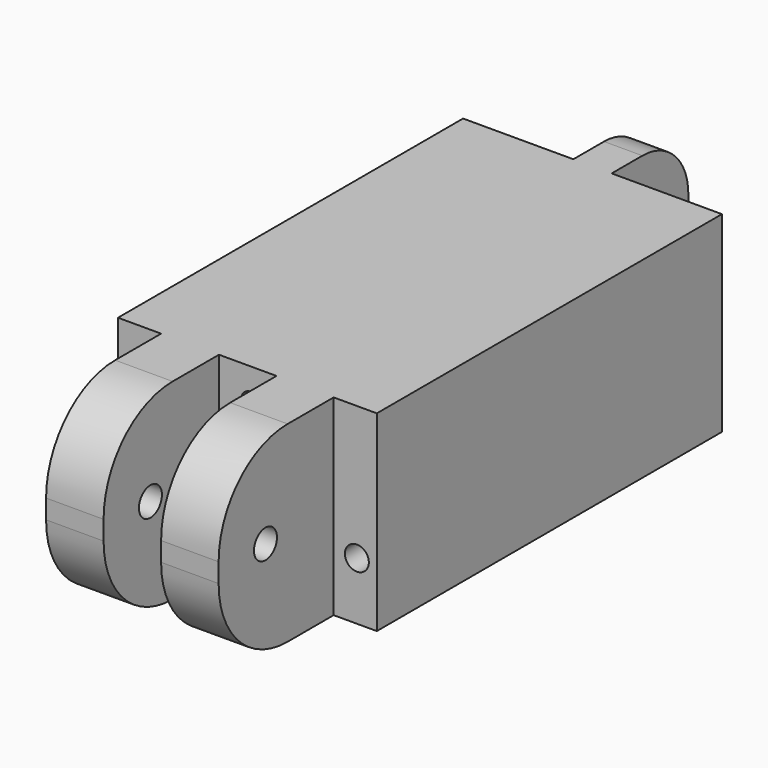
from build123d import *

# Parameters (mm, degrees)
PAD_DEPTH       = 20
SKETCH001_R     = 1.5
POCKET_DEPTH    = 22.501
FILLET_R        = 9
FILLET001_R     = 9
FILLET002_R     = 9
FILLET003_R     = 9
FILLET004_R     = 6
FILLET005_R     = 6
SKETCH002_R     = 1.5
POCKET001_DEPTH = 15.501
SKETCH003_R     = 1.25
POCKET002_DEPTH = 55.001155
SKETCH004_R     = 1
POCKET003_DEPTH = 54.95679


with BuildPart() as part:
    # Sketch → Pad (new body)
    with BuildSketch(Plane.XY):
        Polygon((-29.277703, 26.681208), (-17.777703, 26.681208), (-17.777703, 36.681208), (-13.777703, 36.681208), (-13.777703, 26.681208), (-2.277703, 26.681208), (-2.277703, -18.318792), (-6.777703, -18.318818), (-6.777703, -33.318818), (-12.777703, -33.318818), (-12.777703, -18.274582), (-18.777703, -18.274582), (-18.777703, -33.318792), (-24.777703, -33.318792), (-24.777703, -18.318792), (-29.277703, -18.318792), align=None)
    extrude(amount=PAD_DEPTH)

    # Sketch001 (on Face8 of Pad) → Pocket (cut, through all)
    with BuildSketch(Plane.YZ.offset(-6.777703)):
        with Locations((-27.212769, 10.156303)):
            Circle(SKETCH001_R)
    extrude(amount=-POCKET_DEPTH, mode=Mode.SUBTRACT)

    # Fillet
    fillet_edges = [part.edges().sort_by_distance(p)[0] for p in [
        (-21.777703, -33.318792, 20),
    ]]
    fillet(fillet_edges, radius=FILLET_R)

    # Fillet001
    fillet001_edges = [part.edges().sort_by_distance(p)[0] for p in [
        (-21.777703, -33.318792, 0),
    ]]
    fillet(fillet001_edges, radius=FILLET001_R)

    # Fillet002
    fillet002_edges = [part.edges().sort_by_distance(p)[0] for p in [
        (-9.777703, -33.318818, 20),
    ]]
    fillet(fillet002_edges, radius=FILLET002_R)

    # Fillet003
    fillet003_edges = [part.edges().sort_by_distance(p)[0] for p in [
        (-9.777703, -33.318818, 0),
    ]]
    fillet(fillet003_edges, radius=FILLET003_R)

    # Fillet004
    fillet004_edges = [part.edges().sort_by_distance(p)[0] for p in [
        (-15.777703, 36.681208, 20),
    ]]
    fillet(fillet004_edges, radius=FILLET004_R)

    # Fillet005
    fillet005_edges = [part.edges().sort_by_distance(p)[0] for p in [
        (-15.777703, 36.681208, 0),
    ]]
    fillet(fillet005_edges, radius=FILLET005_R)

    # Sketch002 (on Face8 of Fillet005) → Pocket001 (cut, through all)
    with BuildSketch(Plane(origin=(-17.777703, 0, 0), x_dir=(0, -1, 0), z_dir=(-1, 0, 0))):
        with Locations((-31.403757, 9.939318)):
            Circle(SKETCH002_R)
    extrude(amount=-POCKET001_DEPTH, mode=Mode.SUBTRACT)

    # Sketch003 (on Face12 of Pocket001) → Pocket002 (cut, through all)
    with BuildSketch(Plane(origin=(0.000105, -18.318779, 0), x_dir=(1, 6e-06, 0), z_dir=(6e-06, -1, 0))):
        with Locations((-27.20172, 5.947487)):
            Circle(SKETCH003_R)
        with Locations((-4.360133, 6.030852)):
            Circle(SKETCH003_R)
    extrude(amount=-POCKET002_DEPTH, mode=Mode.SUBTRACT)

    # Sketch004 (on Face20 of Pocket002) → Pocket003 (cut, through all)
    with BuildSketch(Plane.XZ.offset(18.274582)):
        with Locations((-15.464924, 16.684162)):
            Circle(SKETCH004_R)
    extrude(amount=-POCKET003_DEPTH, mode=Mode.SUBTRACT)


solid = part.part
